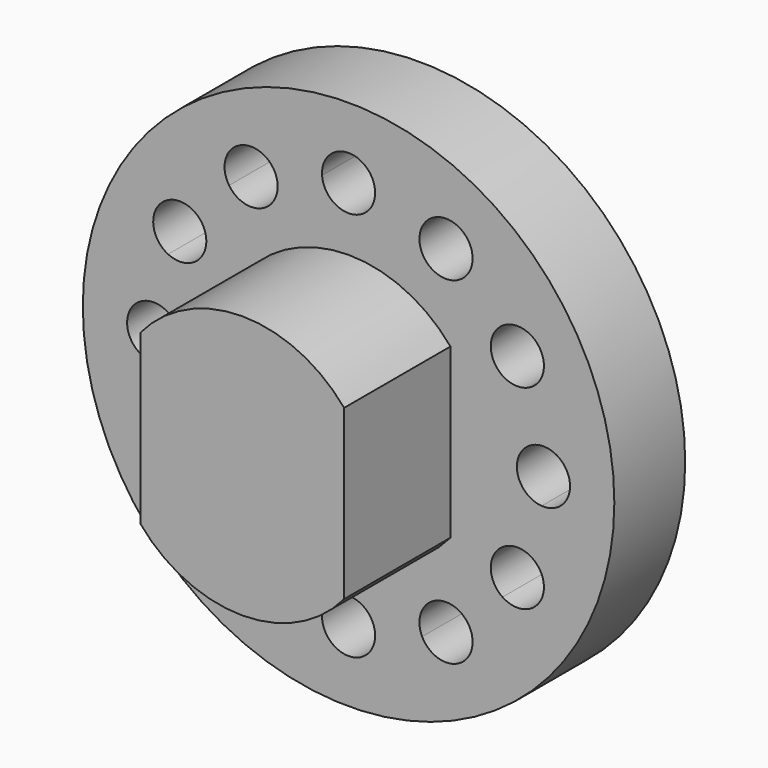
from build123d import *

# Parameters (mm, degrees)
F0_R     = 30
F1_DEPTH = 10
F2_DEPTH = 25


with BuildPart() as f1:
    # F0 (on Front) → F1 (new body)
    with BuildSketch(Plane.XZ):
        Circle(F0_R)
        with BuildLine():
            ThreePointArc((20.371927, 8.305697), (21.250368, 5.694019), (21.795455, 2.993019))
            ThreePointArc((21.795455, 2.993019), (24.047726, 2.192446), (25, 0))
            ThreePointArc((25, 0), (24.047726, -2.192446), (21.795455, -2.993019))
            ThreePointArc((21.795455, -2.993019), (21.250368, -5.694019), (20.371927, -8.305697))
            ThreePointArc((20.371927, -8.305697), (21.597957, -9.412251), (22.052559, -11))
            ThreePointArc((22.052559, -11), (20.463064, -13.64773), (17.378908, -13.489758))
            ThreePointArc((17.378908, -13.489758), (15.556349, -15.556349), (13.489758, -17.378908))
            ThreePointArc((13.489758, -17.378908), (13.869606, -18.177708), (14, -19.052559))
            ThreePointArc((14, -19.052559), (11.67716, -21.975136), (8.305697, -20.371927))
            ThreePointArc((8.305697, -20.371927), (5.694019, -21.250368), (2.993019, -21.795455))
            ThreePointArc((2.993019, -21.795455), (2.998254, -21.897668), (3, -22))
            ThreePointArc((3, -22), (-0.102332, -24.998254), (-2.993019, -21.795455))
            ThreePointArc((-2.993019, -21.795455), (-5.694019, -21.250368), (-8.305697, -20.371927))
            ThreePointArc((-8.305697, -20.371927), (-12.5, -21.650635), (-13.489758, -17.378908))
            ThreePointArc((-13.489758, -17.378908), (-15.556349, -15.556349), (-17.378908, -13.489758))
            ThreePointArc((-17.378908, -13.489758), (-21.650635, -12.5), (-20.371927, -8.305697))
            ThreePointArc((-20.371927, -8.305697), (-21.250368, -5.694019), (-21.795455, -2.993019))
            ThreePointArc((-21.795455, -2.993019), (-25, 0), (-21.795455, 2.993019))
            ThreePointArc((-21.795455, 2.993019), (-21.250368, 5.694019), (-20.371927, 8.305697))
            ThreePointArc((-20.371927, 8.305697), (-21.650635, 12.5), (-17.378908, 13.489758))
            ThreePointArc((-17.378908, 13.489758), (-15.556349, 15.556349), (-13.489758, 17.378908))
            ThreePointArc((-13.489758, 17.378908), (-12.5, 21.650635), (-8.305697, 20.371927))
            ThreePointArc((-8.305697, 20.371927), (-5.694019, 21.250368), (-2.993019, 21.795455))
            ThreePointArc((-2.993019, 21.795455), (-0.102332, 24.998254), (3, 22))
            ThreePointArc((3, 22), (2.998254, 21.897668), (2.993019, 21.795455))
            ThreePointArc((2.993019, 21.795455), (5.694019, 21.250368), (8.305697, 20.371927))
            ThreePointArc((8.305697, 20.371927), (11.67716, 21.975136), (14, 19.052559))
            ThreePointArc((14, 19.052559), (13.869606, 18.177708), (13.489758, 17.378908))
            ThreePointArc((13.489758, 17.378908), (15.556349, 15.556349), (17.378908, 13.489758))
            ThreePointArc((17.378908, 13.489758), (20.463064, 13.64773), (22.052559, 11))
            ThreePointArc((22.052559, 11), (21.597957, 9.412251), (20.371927, 8.305697))
        make_face(mode=Mode.SUBTRACT)
        with BuildLine():
            ThreePointArc((21.795455, -2.993019), (19, 0), (21.795455, 2.993019))
            ThreePointArc((21.795455, 2.993019), (21.250368, 5.694019), (20.371927, 8.305697))
            ThreePointArc((20.371927, 8.305697), (16.454483, 9.5), (17.378908, 13.489758))
            ThreePointArc((17.378908, 13.489758), (15.556349, 15.556349), (13.489758, 17.378908))
            ThreePointArc((13.489758, 17.378908), (9.5, 16.454483), (8.305697, 20.371927))
            ThreePointArc((8.305697, 20.371927), (5.694019, 21.250368), (2.993019, 21.795455))
            ThreePointArc((2.993019, 21.795455), (0, 19), (-2.993019, 21.795455))
            ThreePointArc((-2.993019, 21.795455), (-5.694019, 21.250368), (-8.305697, 20.371927))
            ThreePointArc((-8.305697, 20.371927), (-8.077423, 19.729719), (-8, 19.052559))
            ThreePointArc((-8, 19.052559), (-10.125149, 16.182953), (-13.489758, 17.378908))
            ThreePointArc((-13.489758, 17.378908), (-15.556349, 15.556349), (-17.378908, 13.489758))
            ThreePointArc((-17.378908, 13.489758), (-16.404828, 12.410505), (-16.052559, 11))
            ThreePointArc((-16.052559, 11), (-17.464809, 8.454602), (-20.371927, 8.305697))
            ThreePointArc((-20.371927, 8.305697), (-21.250368, 5.694019), (-21.795455, 2.993019))
            ThreePointArc((-21.795455, 2.993019), (-19.807554, 2.047726), (-19, 0))
            ThreePointArc((-19, 0), (-19.807554, -2.047726), (-21.795455, -2.993019))
            ThreePointArc((-21.795455, -2.993019), (-21.250368, -5.694019), (-20.371927, -8.305697))
            ThreePointArc((-20.371927, -8.305697), (-17.464809, -8.454602), (-16.052559, -11))
            ThreePointArc((-16.052559, -11), (-16.404828, -12.410505), (-17.378908, -13.489758))
            ThreePointArc((-17.378908, -13.489758), (-15.556349, -15.556349), (-13.489758, -17.378908))
            ThreePointArc((-13.489758, -17.378908), (-10.125149, -16.182953), (-8, -19.052559))
            ThreePointArc((-8, -19.052559), (-8.077423, -19.729719), (-8.305697, -20.371927))
            ThreePointArc((-8.305697, -20.371927), (-5.694019, -21.250368), (-2.993019, -21.795455))
            ThreePointArc((-2.993019, -21.795455), (0, -19), (2.993019, -21.795455))
            ThreePointArc((2.993019, -21.795455), (5.694019, -21.250368), (8.305697, -20.371927))
            ThreePointArc((8.305697, -20.371927), (9.5, -16.454483), (13.489758, -17.378908))
            ThreePointArc((13.489758, -17.378908), (15.556349, -15.556349), (17.378908, -13.489758))
            ThreePointArc((17.378908, -13.489758), (16.454483, -9.5), (20.371927, -8.305697))
            ThreePointArc((20.371927, -8.305697), (21.250368, -5.694019), (21.795455, -2.993019))
        make_face()
        with BuildLine():
            Line((-11.5, -9.5), (-11.5, 9.5))
            ThreePointArc((-11.5, 9.5), (0, 14.86932), (11.5, 9.5))
            Line((11.5, 9.5), (11.5, -9.5))
            ThreePointArc((11.5, -9.5), (0, -14.86932), (-11.5, -9.5))
        make_face(mode=Mode.SUBTRACT)
    extrude(amount=F1_DEPTH)

    # F0 (on Front) → F2 (join)
    with BuildSketch(Plane.XZ):
        with BuildLine():
            ThreePointArc((11.5, 9.5), (0, 14.86932), (-11.5, 9.5))
            Line((-11.5, 9.5), (-11.5, -9.5))
            ThreePointArc((-11.5, -9.5), (0, -14.86932), (11.5, -9.5))
            Line((11.5, -9.5), (11.5, 9.5))
        make_face()
    extrude(amount=F2_DEPTH)


solid = f1.part
